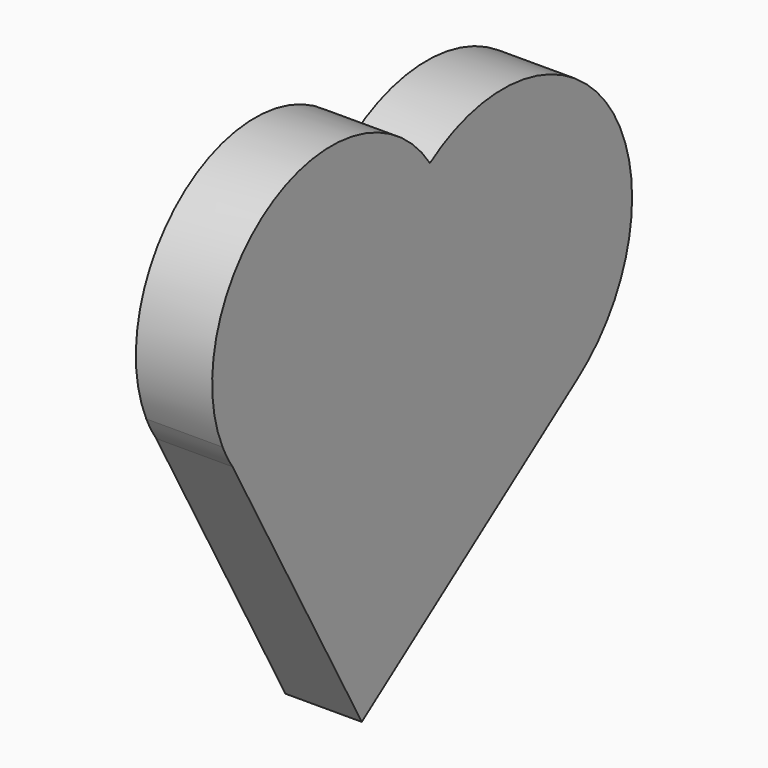
from build123d import *

# Parameters (mm, degrees)
F1_DEPTH = 25.4
F2_SCALE = 0.25


with BuildPart() as f1:
    # F0 (on Right) → F1 (new body)
    with BuildSketch(Plane.YZ):
        with BuildLine():
            ThreePointArc((-110.3992487095, 15.9628562986), (-108.4846328784, 12.1435644545), (-106.2483957789, 8.5032365015))
            Line((-106.2483957789, 8.5032365015), (-110.3992487095, 15.9628562986))
        make_face()
        with BuildLine():
            ThreePointArc((-24.1195932903, 64.1108403944), (-46.0880198127, 31.8647754474), (-40.4449835973, -6.7432109118))
            ThreePointArc((-40.4449835973, -6.7432109118), (-22.2285273136, 11.4155651853), (-15.5582582091, 36.2568199635))
            ThreePointArc((-15.5582582091, 36.2568199635), (-17.7468872986, 50.8268483826), (-24.1195932903, 64.1108403944))
        make_face()
        with BuildLine():
            Line((-52.4756349623, -88.1333723664), (37.4816562158, -23.9329912189))
            ThreePointArc((37.4816562158, -23.9329912189), (-5.3042368908, -32.6670185732), (-40.4449835973, -6.7432109118))
            ThreePointArc((-40.4449835973, -6.7432109118), (-76.3437133157, -12.0550910847), (-106.2483957789, 8.5032365015))
            Line((-106.2483957789, 8.5032365015), (-52.4756349623, -88.1333723664))
        make_face()
        with BuildLine():
            ThreePointArc((-106.2483957789, 8.5032365015), (-76.3437133157, -12.0550910847), (-40.4449835973, -6.7432109118))
            ThreePointArc((-40.4449835973, -6.7432109118), (-46.0880198127, 31.8647754474), (-24.1195932903, 64.1108403944))
            ThreePointArc((-24.1195932903, 64.1108403944), (-89.3162249481, 79.5619391689), (-110.3992487095, 15.9628562986))
            Line((-110.3992487095, 15.9628562986), (-106.2483957789, 8.5032365015))
        make_face()
        with BuildLine():
            ThreePointArc((-40.4449835973, -6.7432109118), (-5.3042368908, -32.6670185732), (37.4816562158, -23.9329912189))
            ThreePointArc((37.4816562158, -23.9329912189), (54.0392417852, -4.7941657865), (59.9991728249, 19.8011081666))
            ThreePointArc((59.9991728249, 19.8011081666), (31.3102321542, 67.3387752918), (-24.1195932903, 64.1108403944))
            ThreePointArc((-24.1195932903, 64.1108403944), (-17.7468872986, 50.8268483826), (-15.5582582091, 36.2568199635))
            ThreePointArc((-15.5582582091, 36.2568199635), (-22.2285273136, 11.4155651853), (-40.4449835973, -6.7432109118))
        make_face()
    extrude(amount=F1_DEPTH)


with BuildPart() as f1_1:
    # F2: moved
    add(f1.part.scale(F2_SCALE))


solid = f1_1.part
